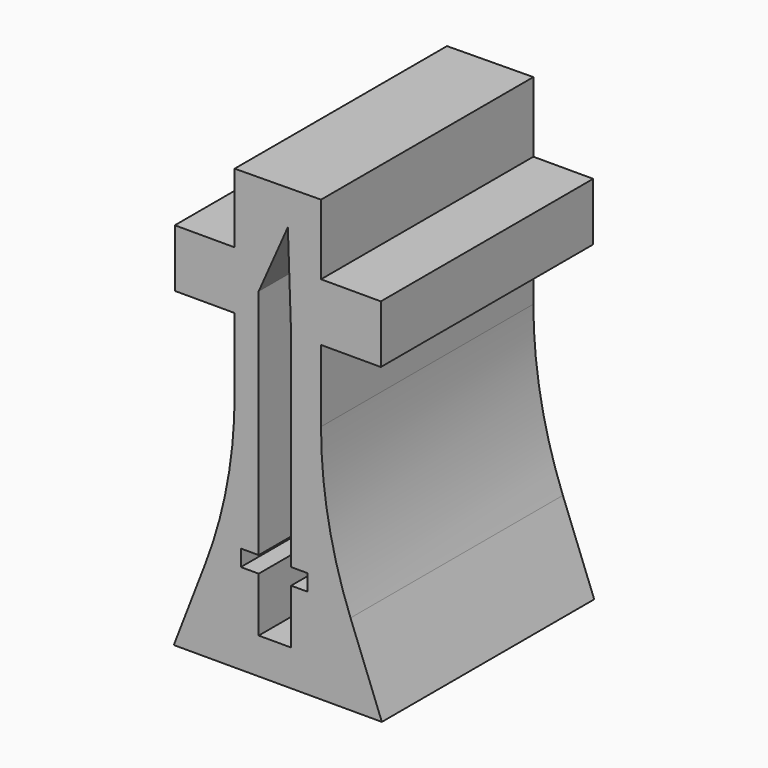
from build123d import *

# Parameters (mm, degrees)
F1_DEPTH = 12.7


with BuildPart() as f1:
    # F0 (on Front) → F1 (new body)
    with BuildSketch(Plane.XZ):
        with BuildLine():
            Line((-24.285673, 10.139517), (-24.285673, 7.374194))
            Line((-24.285673, 7.374194), (-21.424013, 7.374194))
            Line((-21.424013, 7.374194), (-21.424013, 3.928539))
            ThreePointArc((-21.424013, 3.928539), (-21.779967, 0.066171), (-22.835836, -3.666084))
            Line((-22.835836, -3.666084), (-24.334839, -7.558548))
            Line((-24.334839, -7.558548), (-14.379678, -7.558548))
            Line((-14.379678, -7.558548), (-15.878681, -3.666084))
            ThreePointArc((-15.878681, -3.666084), (-16.93455, 0.066171), (-17.290504, 3.928539))
            Line((-17.290504, 3.928539), (-17.290504, 7.374194))
            Line((-17.290504, 7.374194), (-14.428843, 7.374194))
            Line((-14.428843, 7.374194), (-14.428843, 10.139517))
            Line((-14.428843, 10.139517), (-17.290504, 10.139517))
            Line((-17.290504, 10.139517), (-17.290504, 13.493787))
            Line((-17.290504, 13.493787), (-21.424013, 13.455031))
            Line((-21.424013, 13.455031), (-21.424013, 10.139517))
            Line((-21.424013, 10.139517), (-24.285673, 10.139517))
        make_face()
        Polygon((-20.272696, -2.44856), (-20.272696, 0), (-20.272696, 7.374194), (-20.272696, 8.660011), (-18.877488, 11.816652), (-18.722465, 7.374194), (-18.722465, 0), (-18.722465, -2.44856), (-17.933246, -2.44856), (-17.933246, -3.230711), (-18.722465, -3.230711), (-18.722465, -5.837881), (-20.272696, -5.837881), (-20.272696, -3.230711), (-21.127159, -3.230711), (-21.127159, -2.44856), align=None, mode=Mode.SUBTRACT)
    extrude(amount=F1_DEPTH)


solid = f1.part
